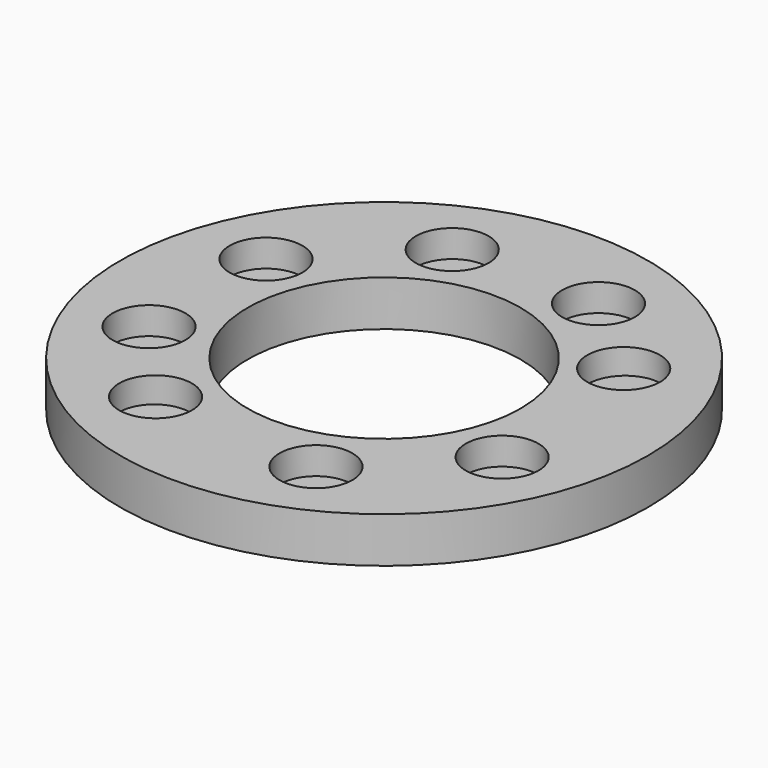
from build123d import *

# Parameters (mm, degrees)
CYLINDER469_R               = 1.5
CYLINDER469_DEPTH           = 100
CYLINDER472_R               = 1.5
CYLINDER472_DEPTH           = 100
CYLINDER472_ROLL_ANGLE      = -0.500355
CYLINDER472_PITCH_ANGLE     = 0.967193
CYLINDER472_PLACEMENT_ANGLE = 144.93646
CYLINDER481_R               = 1.5
CYLINDER481_DEPTH           = 100
CYLINDER476_R               = 1.5
CYLINDER476_DEPTH           = 100
CYLINDER476_PLACEMENT_ANGLE = 225
CYLINDER470_R               = 1.5
CYLINDER470_DEPTH           = 100
CYLINDER475_R               = 1.5
CYLINDER475_DEPTH           = 100
CYLINDER475_PLACEMENT_ANGLE = 45
CYLINDER479_R               = 1.5
CYLINDER479_DEPTH           = 100
CYLINDER479_ROLL_ANGLE      = 0.146073
CYLINDER479_PITCH_ANGLE     = 1.079101
CYLINDER479_PLACEMENT_ANGLE = -9.939308
CYLINDER471_R               = 1.5
CYLINDER471_DEPTH           = 100
CYLINDER471_PLACEMENT_ANGLE = 45
CYLINDER468_R               = 8
CYLINDER468_DEPTH           = 18
CYLINDER480_R               = 8
CYLINDER480_DEPTH           = 18
CYLINDER480_PLACEMENT_ANGLE = 225
CYLINDER483_R               = 8
CYLINDER483_DEPTH           = 18
CYLINDER482_R               = 8
CYLINDER482_DEPTH           = 18
CYLINDER482_ROLL_ANGLE      = -0.500355
CYLINDER482_PITCH_ANGLE     = 0.967193
CYLINDER482_PLACEMENT_ANGLE = 144.93646
CYLINDER474_R               = 8
CYLINDER474_DEPTH           = 18
CYLINDER478_R               = 8
CYLINDER478_DEPTH           = 18
CYLINDER478_PLACEMENT_ANGLE = 45
CYLINDER473_R               = 8
CYLINDER473_DEPTH           = 18
CYLINDER473_ROLL_ANGLE      = 0.146073
CYLINDER473_PITCH_ANGLE     = 1.079101
CYLINDER473_PLACEMENT_ANGLE = -9.939308
CYLINDER477_R               = 8
CYLINDER477_DEPTH           = 18
CYLINDER477_PLACEMENT_ANGLE = 45
TUBE025_R                   = 58
TUBE025_R_2                 = 30
TUBE025_DEPTH               = 10


with BuildPart() as obj1:
    # Cylinder469 → Cylinder469 (new body)
    with BuildSketch(Plane(origin=(38.80294, -16.072704, 0), x_dir=(0, 1, 0), z_dir=(0, 0, 1))):
        Circle(CYLINDER469_R)
    extrude(amount=CYLINDER469_DEPTH)


with BuildPart() as obj2:
    # Cylinder472 → Cylinder472 (new body)
    with BuildSketch(Plane.XY):
        Circle(CYLINDER472_R)
    extrude(amount=CYLINDER472_DEPTH)


with BuildPart() as obj2_1:
    # Cylinder472 roll: moved
    add(obj2.part.rotate(Axis((0, 0, 0), (1, 0, 0)), CYLINDER472_ROLL_ANGLE))


with BuildPart() as obj2_2:
    # Cylinder472 pitch: moved
    add(obj2_1.part.rotate(Axis((0, 0, 0), (0, 1, 0)), CYLINDER472_PITCH_ANGLE))


with BuildPart() as obj2_3:
    # Cylinder472 placement: moved
    add(obj2_2.part.moved(Location((35.440039, 22.530677, 0.610113))).rotate(Axis((35.440039, 22.530677, 0.610113), (0, 0, 1)), CYLINDER472_PLACEMENT_ANGLE))


with BuildPart() as obj3:
    # Cylinder481 → Cylinder481 (new body)
    with BuildSketch(Plane(origin=(16.072704, 38.80294, 0), x_dir=(-1, 0, 0), z_dir=(0, 0, 1))):
        Circle(CYLINDER481_R)
    extrude(amount=CYLINDER481_DEPTH)


with BuildPart() as obj4:
    # Cylinder476 → Cylinder476 (new body)
    with BuildSketch(Plane.XY):
        Circle(CYLINDER476_R)
    extrude(amount=CYLINDER476_DEPTH)


with BuildPart() as obj4_1:
    # Cylinder476 placement: moved
    add(obj4.part.moved(Location((-16.072704, 38.80294, 0))).rotate(Axis((-16.072704, 38.80294, 0), (0, 0, 1)), CYLINDER476_PLACEMENT_ANGLE))


with BuildPart() as obj5:
    # Cylinder470 → Cylinder470 (new body)
    with BuildSketch(Plane(origin=(-38.80294, 16.072704, 0), x_dir=(0, -1, 0), z_dir=(0, 0, 1))):
        Circle(CYLINDER470_R)
    extrude(amount=CYLINDER470_DEPTH)


with BuildPart() as obj6:
    # Cylinder475 → Cylinder475 (new body)
    with BuildSketch(Plane.XY):
        Circle(CYLINDER475_R)
    extrude(amount=CYLINDER475_DEPTH)


with BuildPart() as obj6_1:
    # Cylinder475 placement: moved
    add(obj6.part.moved(Location((-38.80294, -16.072704, 0))).rotate(Axis((-38.80294, -16.072704, 0), (0, 0, -1)), CYLINDER475_PLACEMENT_ANGLE))


with BuildPart() as obj7:
    # Cylinder479 → Cylinder479 (new body)
    with BuildSketch(Plane.XY):
        Circle(CYLINDER479_R)
    extrude(amount=CYLINDER479_DEPTH)


with BuildPart() as obj7_1:
    # Cylinder479 roll: moved
    add(obj7.part.rotate(Axis((0, 0, 0), (1, 0, 0)), CYLINDER479_ROLL_ANGLE))


with BuildPart() as obj7_2:
    # Cylinder479 pitch: moved
    add(obj7_1.part.rotate(Axis((0, 0, 0), (0, 1, 0)), CYLINDER479_PITCH_ANGLE))


with BuildPart() as obj7_3:
    # Cylinder479 placement: moved
    add(obj7_2.part.moved(Location((-22.528054, -35.446371, 0.203785))).rotate(Axis((-22.528054, -35.446371, 0.203785), (0, 0, 1)), CYLINDER479_PLACEMENT_ANGLE))


with BuildPart() as compound338:
    # Cylinder471 → Cylinder471 (new body)
    with BuildSketch(Plane.XY):
        Circle(CYLINDER471_R)
    extrude(amount=CYLINDER471_DEPTH)


with BuildPart() as compound338_1:
    # Cylinder471 placement: moved
    add(compound338.part.moved(Location((16.072704, -38.80294, 0))).rotate(Axis((16.072704, -38.80294, 0), (0, 0, 1)), CYLINDER471_PLACEMENT_ANGLE))

    # Compound338: union obj1, obj2, obj3, obj4, obj5, obj6, obj7
    add(obj1.part)
    add(obj2_3.part)
    add(obj3.part)
    add(obj4_1.part)
    add(obj5.part)
    add(obj6_1.part)
    add(obj7_3.part)


with BuildPart() as obj8:
    # Cylinder468 → Cylinder468 (new body)
    with BuildSketch(Plane(origin=(-38.798949, 16.072537, 43), x_dir=(0, -1, 0), z_dir=(0, 0, 1))):
        Circle(CYLINDER468_R)
    extrude(amount=CYLINDER468_DEPTH)


with BuildPart() as obj9:
    # Cylinder480 → Cylinder480 (new body)
    with BuildSketch(Plane.XY):
        Circle(CYLINDER480_R)
    extrude(amount=CYLINDER480_DEPTH)


with BuildPart() as obj9_1:
    # Cylinder480 placement: moved
    add(obj9.part.moved(Location((-16.07, 38.8, 43))).rotate(Axis((-16.07, 38.8, 43), (0, 0, 1)), CYLINDER480_PLACEMENT_ANGLE))


with BuildPart() as obj10:
    # Cylinder483 → Cylinder483 (new body)
    with BuildSketch(Plane(origin=(16.072537, 38.798949, 43), x_dir=(-1, 0, 0), z_dir=(0, 0, 1))):
        Circle(CYLINDER483_R)
    extrude(amount=CYLINDER483_DEPTH)


with BuildPart() as obj11:
    # Cylinder482 → Cylinder482 (new body)
    with BuildSketch(Plane.XY):
        Circle(CYLINDER482_R)
    extrude(amount=CYLINDER482_DEPTH)


with BuildPart() as obj11_1:
    # Cylinder482 roll: moved
    add(obj11.part.rotate(Axis((0, 0, 0), (1, 0, 0)), CYLINDER482_ROLL_ANGLE))


with BuildPart() as obj11_2:
    # Cylinder482 pitch: moved
    add(obj11_1.part.rotate(Axis((0, 0, 0), (0, 1, 0)), CYLINDER482_PITCH_ANGLE))


with BuildPart() as obj11_3:
    # Cylinder482 placement: moved
    add(obj11_2.part.moved(Location((34.627801, 22.637113, 43.602309))).rotate(Axis((34.627801, 22.637113, 43.602309), (0, 0, 1)), CYLINDER482_PLACEMENT_ANGLE))


with BuildPart() as obj12:
    # Cylinder474 → Cylinder474 (new body)
    with BuildSketch(Plane(origin=(38.798949, -16.072537, 43), x_dir=(0, 1, 0), z_dir=(0, 0, 1))):
        Circle(CYLINDER474_R)
    extrude(amount=CYLINDER474_DEPTH)


with BuildPart() as obj13:
    # Cylinder478 → Cylinder478 (new body)
    with BuildSketch(Plane.XY):
        Circle(CYLINDER478_R)
    extrude(amount=CYLINDER478_DEPTH)


with BuildPart() as obj13_1:
    # Cylinder478 placement: moved
    add(obj13.part.moved(Location((16.07, -38.8, 43))).rotate(Axis((16.07, -38.8, 43), (0, 0, 1)), CYLINDER478_PLACEMENT_ANGLE))


with BuildPart() as obj14:
    # Cylinder473 → Cylinder473 (new body)
    with BuildSketch(Plane.XY):
        Circle(CYLINDER473_R)
    extrude(amount=CYLINDER473_DEPTH)


with BuildPart() as obj14_1:
    # Cylinder473 roll: moved
    add(obj14.part.rotate(Axis((0, 0, 0), (1, 0, 0)), CYLINDER473_ROLL_ANGLE))


with BuildPart() as obj14_2:
    # Cylinder473 pitch: moved
    add(obj14_1.part.rotate(Axis((0, 0, 0), (0, 1, 0)), CYLINDER473_PITCH_ANGLE))


with BuildPart() as obj14_3:
    # Cylinder473 placement: moved
    add(obj14_2.part.moved(Location((-21.748471, -35.690226, 43.196026))).rotate(Axis((-21.748471, -35.690226, 43.196026), (0, 0, 1)), CYLINDER473_PLACEMENT_ANGLE))


with BuildPart() as compound336:
    # Cylinder477 → Cylinder477 (new body)
    with BuildSketch(Plane.XY):
        Circle(CYLINDER477_R)
    extrude(amount=CYLINDER477_DEPTH)


with BuildPart() as compound336_1:
    # Cylinder477 placement: moved
    add(compound336.part.moved(Location((-38.8, -16.07, 43))).rotate(Axis((-38.8, -16.07, 43), (0, 0, -1)), CYLINDER477_PLACEMENT_ANGLE))

    # Compound336: union obj8, obj9, obj10, obj11, obj12, obj13, obj14
    add(obj8.part)
    add(obj9_1.part)
    add(obj10.part)
    add(obj11_3.part)
    add(obj12.part)
    add(obj13_1.part)
    add(obj14_3.part)


with BuildPart() as compound336_2:
    # Compound336 placement: moved
    add(compound336_1.part.moved(Location((0, 0, 3))))


with BuildPart() as obj15:
    # Tube025 → Tube025 (new body)
    with BuildSketch(Plane.XY.offset(42)):
        Circle(TUBE025_R)
        Circle(TUBE025_R_2, mode=Mode.SUBTRACT)
    extrude(amount=TUBE025_DEPTH)

    # Cut173: cut Compound336
    add(compound336_2.part, mode=Mode.SUBTRACT)

    # Cut174: cut Compound338
    add(compound338_1.part, mode=Mode.SUBTRACT)


solid = obj15.part
